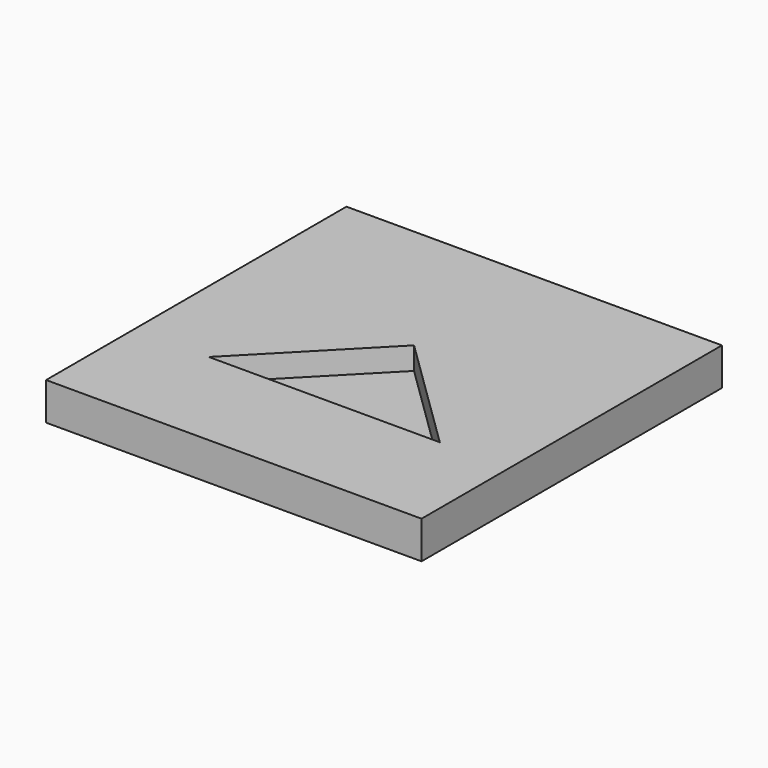
from build123d import *

# Parameters (mm, degrees)
PAD_DEPTH    = 12
SKETCH001_W  = 100
SKETCH001_H  = 100
PAD001_DEPTH = 10


with BuildPart() as body:
    # Sketch → Pad (new body)
    with BuildSketch(Plane.XY):
        Polygon((-30.054117, -20.75305), (31.468237, -20.75305), (0, 10), align=None)
    extrude(amount=PAD_DEPTH)


with BuildPart() as body_1:
    # Body placement: moved
    add(body.part.moved(Location((0, 0, -6))))


with BuildPart() as model_cut:
    # Sketch001 → Pad001 (new body)
    with BuildSketch(Plane.XY):
        Rectangle(SKETCH001_W, SKETCH001_H)
    extrude(amount=PAD001_DEPTH)


with BuildPart() as model_cut_1:
    # Body001 placement: moved
    add(model_cut.part.moved(Location((0, 0, -10))))

    # Cut: cut Body
    add(body_1.part, mode=Mode.SUBTRACT)


solid = model_cut_1.part
